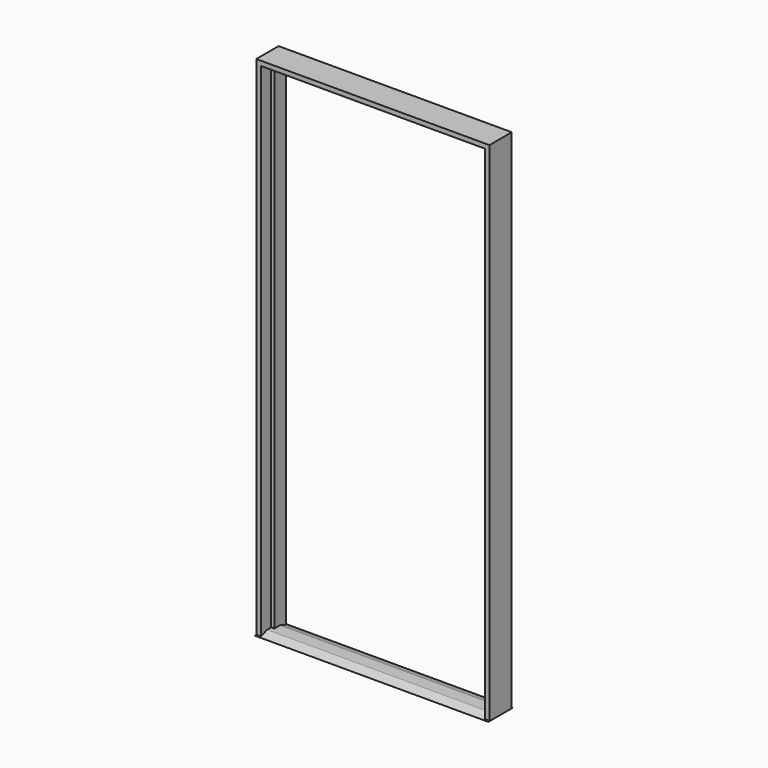
from build123d import *

# Parameters (mm, degrees)
F3_DEPTH      = 61.9125
F5_DEPTH      = 50.8
F5_DEPTH_BACK = 3.175
F7_DEPTH      = 967.58125


with BuildPart() as f3:
    # F2 (on offset) → F3 (new body)
    with BuildSketch(Plane.XZ.offset(-3.175)):
        Polygon((0, 2085.975), (0, 0), (19.05, 0), (31.75, 0), (31.75, 2073.275), (935.83125, 2073.275), (935.83125, 0), (948.53125, 0), (967.58125, 0), (967.58125, 2105.025), (0, 2105.025), align=None)
    extrude(amount=-F3_DEPTH)

    # F4 (on Front) → F5 (join, two sides)
    with BuildSketch(Plane.XZ) as f5_sk:
        Polygon((0, 2085.975), (0, 0), (19.05, 0), (19.05, 2073.275), (19.05, 2085.975), (948.53125, 2085.975), (948.53125, 0), (967.58125, 0), (967.58125, 2105.025), (0, 2105.025), align=None)
    extrude(amount=F5_DEPTH)
    extrude(f5_sk.sketch, amount=-F5_DEPTH_BACK)

    # F6 (on Right) → F7 (join, through all)
    with BuildSketch(Plane.YZ):
        Polygon((32.54375, 12.7), (-18.25625, 12.7), (-56.35625, 0), (-50.8, 0), (7.14375, 0), (65.0875, 0), (70.64375, 0), align=None)
    extrude(amount=F7_DEPTH)


solid = f3.part
